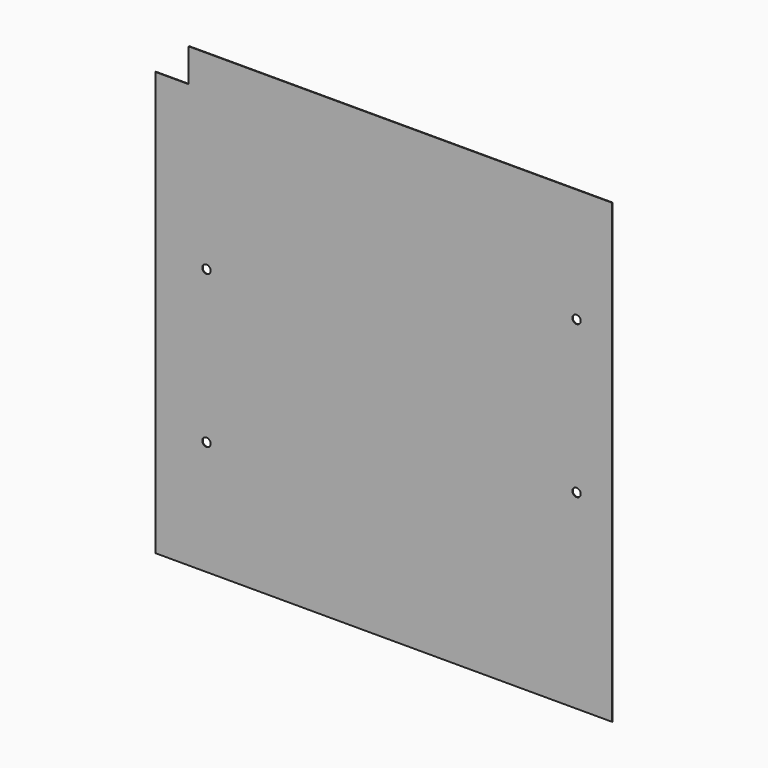
from build123d import *

# Parameters (mm, degrees)
F1_DEPTH = 0.79375
F2_R     = 5.55625
F3_DEPTH = 25.4


with BuildPart() as f1:
    # F0 (on Front) → F1 (new body)
    with BuildSketch(Plane.XZ):
        Polygon((0, 565.15), (0, 0), (609.6, 0), (609.6, 609.6), (44.45, 609.6), (44.45, 565.15), align=None)
    extrude(amount=F1_DEPTH)

    # F2 (on face) → F3 (cut)
    with BuildSketch(Plane.XZ.offset(0.79375)):
        with Locations((561.975, 254)):
            Circle(F2_R)
        with Locations((561.975, 457.2)):
            Circle(F2_R)
        with Locations((68.2625, 152.4)):
            Circle(F2_R)
        with Locations((68.2625, 355.6)):
            Circle(F2_R)
    extrude(amount=-F3_DEPTH, mode=Mode.SUBTRACT)


solid = f1.part
